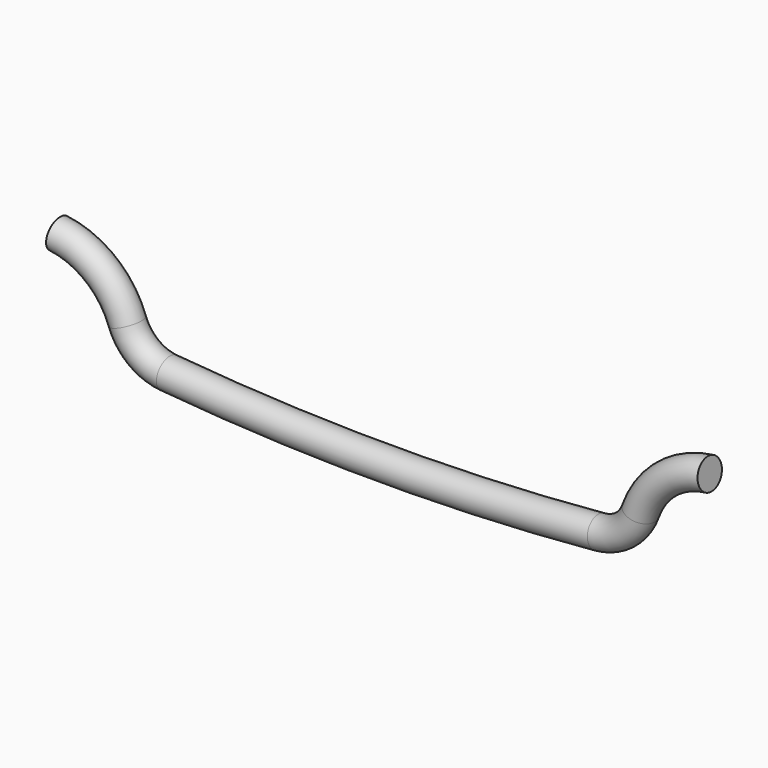
from build123d import *

# Parameters (mm, degrees)
F2_R = 15.875


with BuildPart() as f3:
    # F3: sweep along a path in F0
    with BuildLine(Plane.XZ) as f3_path:
        ThreePointArc((-342.9, 50.8), (-298.288023, 32.053173), (-270.104399, -7.283266))
        ThreePointArc((-270.104399, -7.283266), (-253.345187, -30.274572), (-226.85301, -40.649346))
        ThreePointArc((-226.85301, -40.649346), (0, -50.8), (226.85301, -40.649346))
        ThreePointArc((226.85301, -40.649346), (253.345187, -30.274572), (270.104399, -7.283266))
        ThreePointArc((270.104399, -7.283266), (298.288023, 32.053173), (342.9, 50.8))
    # F2 (on face) → F3 (sweep)
    with BuildSketch(Plane(origin=(-343.952018, 0, 42.231998), x_dir=(0, 1, 0), z_dir=(0.992546, 0, -0.121869))):
        with Locations((0, 8.632347)):
            Circle(F2_R)
    sweep(path=f3_path.line)


solid = f3.part
